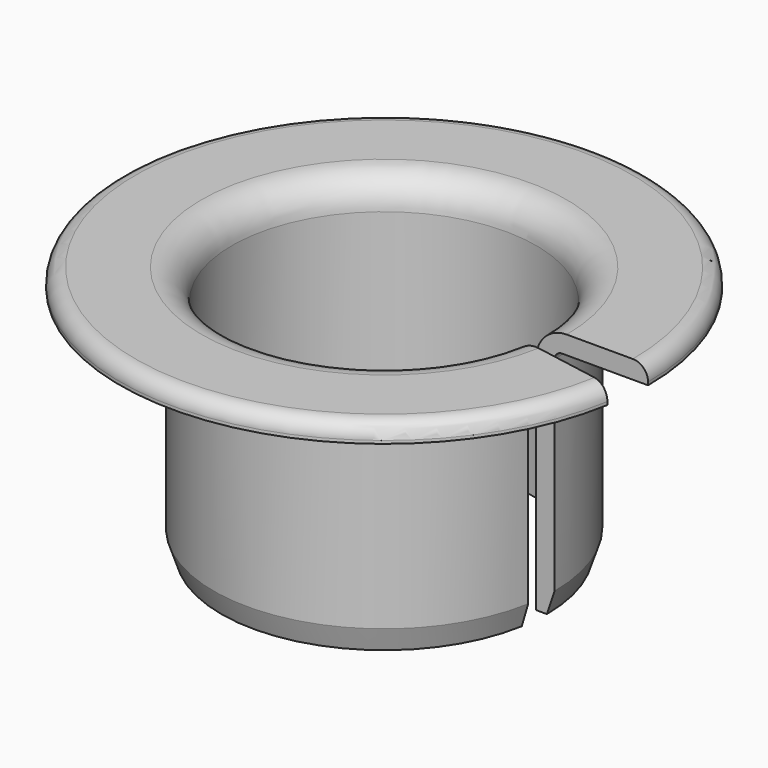
from build123d import *

# Parameters (mm, degrees)
F1_ANGLE = 350


with BuildPart() as f1:
    # F0 (on Front) → F1 (revolve)
    with BuildSketch(Plane.XZ):
        with BuildLine():
            Line((10, 14.6), (10, 0))
            Line((10, 0), (10.7, 0))
            Line((10.7, 0), (11.2, 1.5))
            Line((11.2, 1.5), (11.2, 14.9))
            ThreePointArc((11.2, 14.9), (11.346447, 15.253553), (11.7, 15.4))
            Line((11.7, 15.4), (17.35, 15.4))
            Line((17.35, 15.4), (17.35, 15.6))
            ThreePointArc((17.35, 15.6), (17.057107, 16.307107), (16.35, 16.6))
            Line((16.35, 16.6), (12, 16.6))
            ThreePointArc((12, 16.6), (10.585786, 16.014214), (10, 14.6))
        make_face()
    revolve(axis=Axis((0, 0, 24.386095), (0, 0, 1)), revolution_arc=F1_ANGLE)


solid = f1.part
